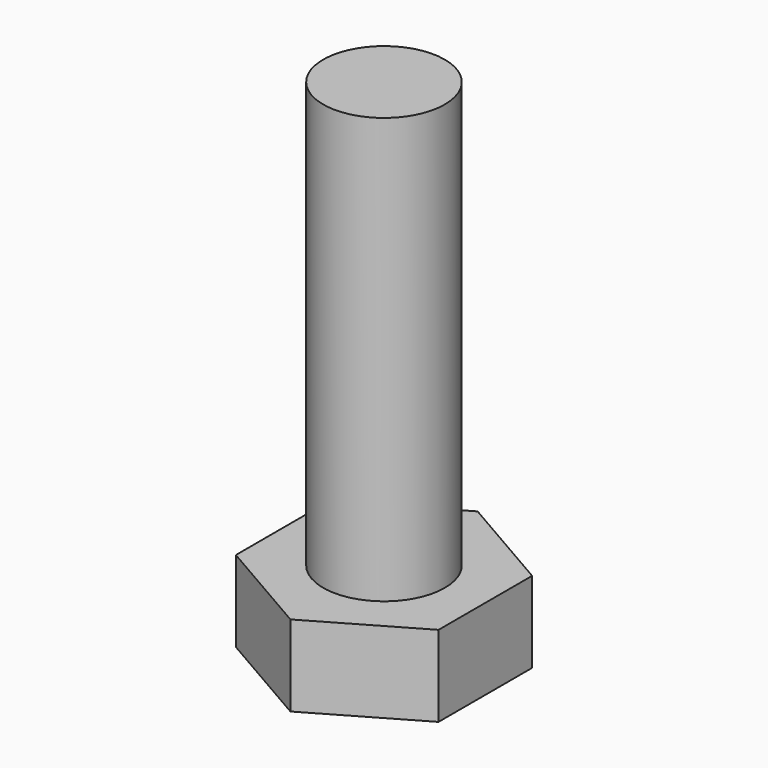
from build123d import *

# Parameters (mm, degrees)
PAD007_DEPTH    = 4
SKETCH011_R     = 3
PAD008_DEPTH    = 21
SKETCH013_R     = 2.5
POCKET001_DEPTH = 2


with BuildPart() as part:
    # Sketch010 → Pad007 (new body)
    with BuildSketch(Plane.XY):
        Polygon((5, -2.886751), (5, 2.886751), (0, 5.773503), (-5, 2.886751), (-5, -2.886751), (0, -5.773503), align=None)
    extrude(amount=-PAD007_DEPTH)

    # Sketch011 → Pad008 (join)
    with BuildSketch(Plane.XY):
        Circle(SKETCH011_R)
    extrude(amount=PAD008_DEPTH)

    # Sketch013 → Pocket001 (cut)
    with BuildSketch(Plane.XY.offset(-4)):
        Circle(SKETCH013_R)
    extrude(amount=POCKET001_DEPTH, mode=Mode.SUBTRACT)


with BuildPart() as part_1:
    # Body007 placement: moved
    add(part.part.moved(Location((0, 0, 7))))


solid = part_1.part
